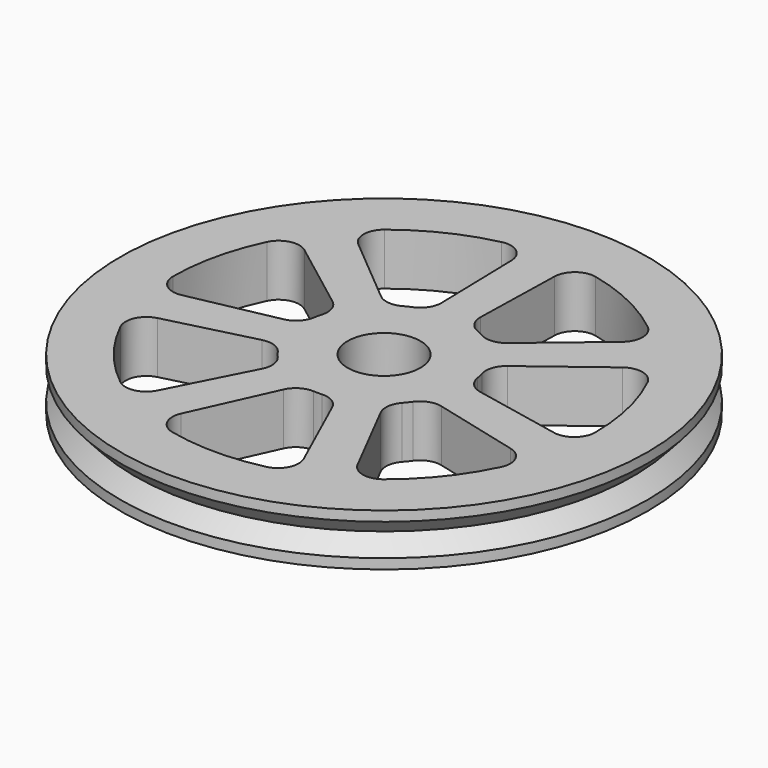
from build123d import *

# Parameters (mm, degrees)
F0_R     = 25.4
F0_R_2   = 3.5
F1_DEPTH = 2.5


with BuildPart() as f1:
    # F0 (on Top) → F1 (new body, symmetric)
    with BuildSketch(Plane.XY):
        Circle(F0_R)
        with BuildLine():
            ThreePointArc((-4.520769, -19.810731), (-5.867147, -18.750304), (-5.898131, -17.036747))
            Line((-5.898131, -17.036747), (-2.335578, -9.159014))
            ThreePointArc((-2.335578, -9.159014), (-1.55413, -8.27532), (-0.41057, -7.98576))
            ThreePointArc((-0.41057, -7.98576), (0, -7.996308), (0.41057, -7.98576))
            ThreePointArc((0.41057, -7.98576), (1.55413, -8.27532), (2.335578, -9.159014))
            Line((2.335578, -9.159014), (5.898131, -17.036747))
            ThreePointArc((5.898131, -17.036747), (5.867147, -18.750304), (4.520769, -19.810731))
            ThreePointArc((4.520769, -19.810731), (0, -20.32), (-4.520769, -19.810731))
        make_face(mode=Mode.SUBTRACT)
        with BuildLine():
            ThreePointArc((-18.307306, -8.817309), (-18.317684, -7.103503), (-16.997289, -6.010894))
            Line((-16.997289, -6.010894), (-8.617015, -3.884523))
            ThreePointArc((-8.617015, -3.884523), (-7.43889, -3.94451), (-6.499505, -4.658044))
            ThreePointArc((-6.499505, -4.658044), (-6.251765, -4.985616), (-5.987533, -5.300037))
            ThreePointArc((-5.987533, -5.300037), (-5.500922, -6.374646), (-5.704596, -7.53658))
            Line((-5.704596, -7.53658), (-9.642441, -15.233582))
            ThreePointArc((-9.642441, -15.233582), (-11.001472, -16.277743), (-12.669999, -15.886268))
            ThreePointArc((-12.669999, -15.886268), (-15.886816, -12.669313), (-18.307306, -8.817309))
        make_face(mode=Mode.SUBTRACT)
        Circle(F0_R_2, mode=Mode.SUBTRACT)
        with BuildLine():
            ThreePointArc((12.669999, -15.886268), (11.001472, -16.277743), (9.642441, -15.233582))
            Line((9.642441, -15.233582), (5.704596, -7.53658))
            ThreePointArc((5.704596, -7.53658), (5.500922, -6.374646), (5.987533, -5.300037))
            ThreePointArc((5.987533, -5.300037), (6.251765, -4.985616), (6.499505, -4.658044))
            ThreePointArc((6.499505, -4.658044), (7.43889, -3.94451), (8.617015, -3.884523))
            Line((8.617015, -3.884523), (16.997289, -6.010894))
            ThreePointArc((16.997289, -6.010894), (18.317684, -7.103503), (18.307306, -8.817309))
            ThreePointArc((18.307306, -8.817309), (15.886816, -12.669313), (12.669999, -15.886268))
        make_face(mode=Mode.SUBTRACT)
        with BuildLine():
            ThreePointArc((-18.308068, 8.815727), (-16.974632, 9.89238), (-15.297143, 9.541285))
            Line((-15.297143, 9.541285), (-8.409663, 4.315093))
            ThreePointArc((-8.409663, 4.315093), (-7.722014, 3.356597), (-7.69418, 2.177275))
            ThreePointArc((-7.69418, 2.177275), (-7.795824, 1.779346), (-7.876901, 1.376723))
            ThreePointArc((-7.876901, 1.376723), (-8.413667, 0.326267), (-9.449094, -0.238948))
            Line((-9.449094, -0.238948), (-17.922058, -1.959219))
            ThreePointArc((-17.922058, -1.959219), (-19.585758, -1.54771), (-20.32, 0.000878))
            ThreePointArc((-20.32, 0.000878), (-19.810535, 4.521625), (-18.308068, 8.815727))
        make_face(mode=Mode.SUBTRACT)
        with BuildLine():
            ThreePointArc((-1.869664, 9.265356), (-2.190304, 8.130118), (-3.094981, 7.373061))
            ThreePointArc((-3.094981, 7.373061), (-3.469468, 7.204424), (-3.834802, 7.016782))
            ThreePointArc((-3.834802, 7.016782), (-4.99075, 6.781494), (-6.078231, 7.238617))
            Line((-6.078231, 7.238617), (-12.706, 12.790476))
            ThreePointArc((-12.706, 12.790476), (-13.421569, 14.34778), (-12.668626, 15.887363))
            ThreePointArc((-12.668626, 15.887363), (-8.816518, 18.307687), (-4.522481, 19.81034))
            ThreePointArc((-4.522481, 19.81034), (-2.849335, 19.4391), (-2.077936, 17.908682))
            Line((-2.077936, 17.908682), (-1.869664, 9.265356))
        make_face(mode=Mode.SUBTRACT)
        with BuildLine():
            ThreePointArc((20.32, 0.000878), (19.585758, -1.54771), (17.922058, -1.959219))
            Line((17.922058, -1.959219), (9.449094, -0.238948))
            ThreePointArc((9.449094, -0.238948), (8.413667, 0.326267), (7.876901, 1.376723))
            ThreePointArc((7.876901, 1.376723), (7.795824, 1.779346), (7.69418, 2.177275))
            ThreePointArc((7.69418, 2.177275), (7.722014, 3.356597), (8.409663, 4.315093))
            Line((8.409663, 4.315093), (15.297143, 9.541285))
            ThreePointArc((15.297143, 9.541285), (16.974632, 9.89238), (18.308068, 8.815727))
            ThreePointArc((18.308068, 8.815727), (19.810535, 4.521625), (20.32, 0.000878))
        make_face(mode=Mode.SUBTRACT)
        with BuildLine():
            ThreePointArc((3.094981, 7.373061), (2.190304, 8.130118), (1.869664, 9.265356))
            Line((1.869664, 9.265356), (2.077936, 17.908682))
            ThreePointArc((2.077936, 17.908682), (2.849335, 19.4391), (4.522481, 19.81034))
            ThreePointArc((4.522481, 19.81034), (8.816518, 18.307687), (12.668626, 15.887363))
            ThreePointArc((12.668626, 15.887363), (13.421569, 14.34778), (12.706, 12.790476))
            Line((12.706, 12.790476), (6.078231, 7.238617))
            ThreePointArc((6.078231, 7.238617), (4.99075, 6.781494), (3.834802, 7.016782))
            ThreePointArc((3.834802, 7.016782), (3.469468, 7.204424), (3.094981, 7.373061))
        make_face(mode=Mode.SUBTRACT)
    extrude(amount=F1_DEPTH, both=True)

    # F2 (on Right) → F3 (revolve, cut)
    with BuildSketch(Plane.YZ):
        Polygon((25.408719, -1.552115), (25.503, 0), (24.003, 0), align=None)
        Polygon((24.003, 0), (25.503, 0), (25.408719, 1.552115), align=None)
    revolve(axis=Axis((0, 0, 1.759876), (0, 0, 1)), mode=Mode.SUBTRACT)


solid = f1.part
